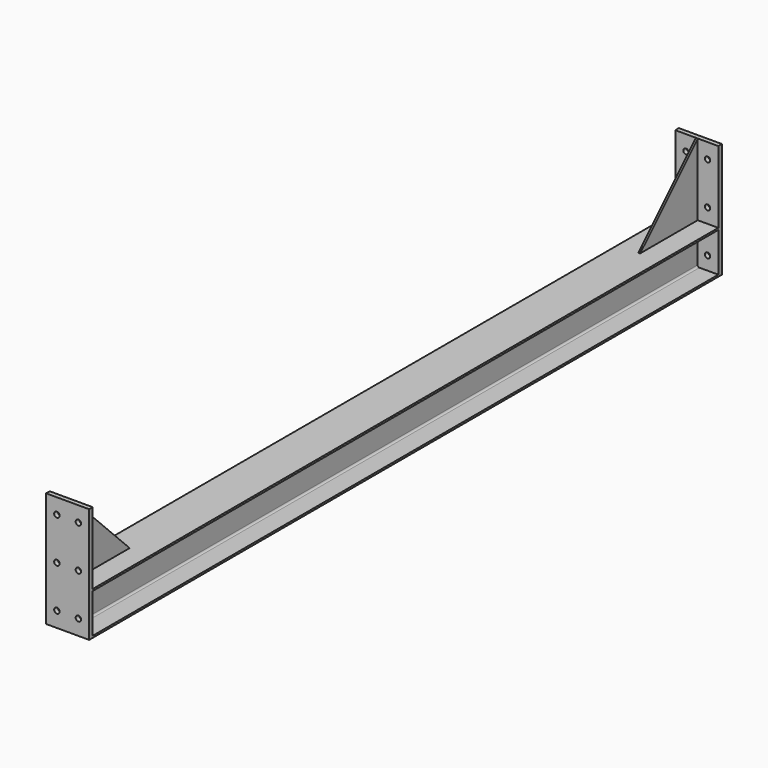
from build123d import *

# Parameters (mm, degrees)
F1_DEPTH = 2762.25
F2_W     = 152.146
F2_H     = 254.254
F3_DEPTH = 15.875
F4_W     = 152.146
F4_H     = 254.254
F5_DEPTH = 15.875
F7_DEPTH = 3.175
F8_R     = 9.525
F9_DEPTH = 2794


with BuildPart() as f1:
    # F0 (on Front) → F1 (new body)
    with BuildSketch(Plane.XZ):
        with BuildLine():
            Line((76.073, 76.073), (-76.073, 76.073))
            Line((-76.073, 76.073), (-76.073, 69.469))
            Line((-76.073, 69.469), (-9.271, 69.469))
            ThreePointArc((-9.271, 69.469), (-4.7808719395, 67.6091280605), (-2.921, 63.119))
            Line((-2.921, 63.119), (-2.921, -63.119))
            ThreePointArc((-2.921, -63.119), (-4.7808719395, -67.6091280605), (-9.271, -69.469))
            Line((-9.271, -69.469), (-76.073, -69.469))
            Line((-76.073, -69.469), (-76.073, -76.073))
            Line((-76.073, -76.073), (76.073, -76.073))
            Line((76.073, -76.073), (76.073, -69.469))
            Line((76.073, -69.469), (9.271, -69.469))
            ThreePointArc((9.271, -69.469), (4.7808719395, -67.6091280605), (2.921, -63.119))
            Line((2.921, -63.119), (2.921, 63.119))
            ThreePointArc((2.921, 63.119), (4.7808719395, 67.6091280605), (9.271, 69.469))
            Line((9.271, 69.469), (76.073, 69.469))
            Line((76.073, 69.469), (76.073, 76.073))
        make_face()
    extrude(amount=F1_DEPTH)

    # F2 (on face) → F3 (join)
    with BuildSketch(Plane.XZ.offset(2762.25)):
        with BuildLine():
            Line((9.271, -69.469), (76.073, -69.469))
            Line((76.073, -69.469), (76.073, 69.469))
            Line((76.073, 69.469), (9.271, 69.469))
            ThreePointArc((9.271, 69.469), (4.7808719395, 67.6091280605), (2.921, 63.119))
            Line((2.921, 63.119), (2.921, -63.119))
            ThreePointArc((2.921, -63.119), (4.7808719395, -67.6091280605), (9.271, -69.469))
        make_face()
        with BuildLine():
            Line((-76.073, 69.469), (-76.073, -69.469))
            Line((-76.073, -69.469), (-9.271, -69.469))
            ThreePointArc((-9.271, -69.469), (-4.7808719395, -67.6091280605), (-2.921, -63.119))
            Line((-2.921, -63.119), (-2.921, 63.119))
            ThreePointArc((-2.921, 63.119), (-4.7808719395, 67.6091280605), (-9.271, 69.469))
            Line((-9.271, 69.469), (-76.073, 69.469))
        make_face()
        with Locations((0, 203.2)):
            Rectangle(F2_W, F2_H)
        with BuildLine():
            Line((-76.073, -69.469), (-76.073, -76.073))
            Line((-76.073, -76.073), (76.073, -76.073))
            Line((76.073, -76.073), (76.073, -69.469))
            Line((76.073, -69.469), (9.271, -69.469))
            ThreePointArc((9.271, -69.469), (4.7808719395, -67.6091280605), (2.921, -63.119))
            Line((2.921, -63.119), (2.921, 63.119))
            ThreePointArc((2.921, 63.119), (4.7808719395, 67.6091280605), (9.271, 69.469))
            Line((9.271, 69.469), (76.073, 69.469))
            Line((76.073, 69.469), (76.073, 76.073))
            Line((76.073, 76.073), (-76.073, 76.073))
            Line((-76.073, 76.073), (-76.073, 69.469))
            Line((-76.073, 69.469), (-9.271, 69.469))
            ThreePointArc((-9.271, 69.469), (-4.7808719395, 67.6091280605), (-2.921, 63.119))
            Line((-2.921, 63.119), (-2.921, -63.119))
            ThreePointArc((-2.921, -63.119), (-4.7808719395, -67.6091280605), (-9.271, -69.469))
            Line((-9.271, -69.469), (-76.073, -69.469))
        make_face()
    extrude(amount=F3_DEPTH)

    # F4 (on face) → F5 (join)
    with BuildSketch(Plane(origin=(0, 0, 0), x_dir=(-1, 0, 0), z_dir=(0, 1, 0))):
        with Locations((0, 203.2)):
            Rectangle(F4_W, F4_H)
        with BuildLine():
            Line((-76.073, -76.073), (76.073, -76.073))
            Line((76.073, -76.073), (76.073, -69.469))
            Line((76.073, -69.469), (9.271, -69.469))
            ThreePointArc((9.271, -69.469), (4.7808719395, -67.6091280605), (2.921, -63.119))
            Line((2.921, -63.119), (2.921, 63.119))
            ThreePointArc((2.921, 63.119), (4.7808719395, 67.6091280605), (9.271, 69.469))
            Line((9.271, 69.469), (76.073, 69.469))
            Line((76.073, 69.469), (76.073, 76.073))
            Line((76.073, 76.073), (-76.073, 76.073))
            Line((-76.073, 76.073), (-76.073, 69.469))
            Line((-76.073, 69.469), (-9.271, 69.469))
            ThreePointArc((-9.271, 69.469), (-4.7808719395, 67.6091280605), (-2.921, 63.119))
            Line((-2.921, 63.119), (-2.921, -63.119))
            ThreePointArc((-2.921, -63.119), (-4.7808719395, -67.6091280605), (-9.271, -69.469))
            Line((-9.271, -69.469), (-76.073, -69.469))
            Line((-76.073, -69.469), (-76.073, -76.073))
        make_face()
        with BuildLine():
            Line((9.271, -69.469), (76.073, -69.469))
            Line((76.073, -69.469), (76.073, 69.469))
            Line((76.073, 69.469), (9.271, 69.469))
            ThreePointArc((9.271, 69.469), (4.7808719395, 67.6091280605), (2.921, 63.119))
            Line((2.921, 63.119), (2.921, -63.119))
            ThreePointArc((2.921, -63.119), (4.7808719395, -67.6091280605), (9.271, -69.469))
        make_face()
        with BuildLine():
            Line((-76.073, 69.469), (-76.073, -69.469))
            Line((-76.073, -69.469), (-9.271, -69.469))
            ThreePointArc((-9.271, -69.469), (-4.7808719395, -67.6091280605), (-2.921, -63.119))
            Line((-2.921, -63.119), (-2.921, 63.119))
            ThreePointArc((-2.921, 63.119), (-4.7808719395, 67.6091280605), (-9.271, 69.469))
            Line((-9.271, 69.469), (-76.073, 69.469))
        make_face()
    extrude(amount=F5_DEPTH)

    # F6 (on Right) → F7 (join, symmetric)
    with BuildSketch(Plane.YZ):
        Polygon((0, 76.073), (0, 330.073), (-254, 76.073), align=None)
        Polygon((-2762.25, 330.073), (-2762.25, 76.073), (-2508.25, 76.073), align=None)
    extrude(amount=F7_DEPTH, both=True)

    # F8 (on face) → F9 (cut)
    with BuildSketch(Plane(origin=(0, 15.875, 0), x_dir=(-1, 0, 0), z_dir=(0, 1, 0))):
        with Locations((-37.973, 276.352)):
            Circle(F8_R)
        with Locations((37.973, 127.127)):
            Circle(F8_R)
        with Locations((-37.973, 127.127)):
            Circle(F8_R)
        with Locations((-37.973, -22.098)):
            Circle(F8_R)
        with Locations((37.973, -22.098)):
            Circle(F8_R)
        with Locations((37.973, 276.352)):
            Circle(F8_R)
    extrude(amount=-F9_DEPTH, mode=Mode.SUBTRACT)


solid = f1.part
